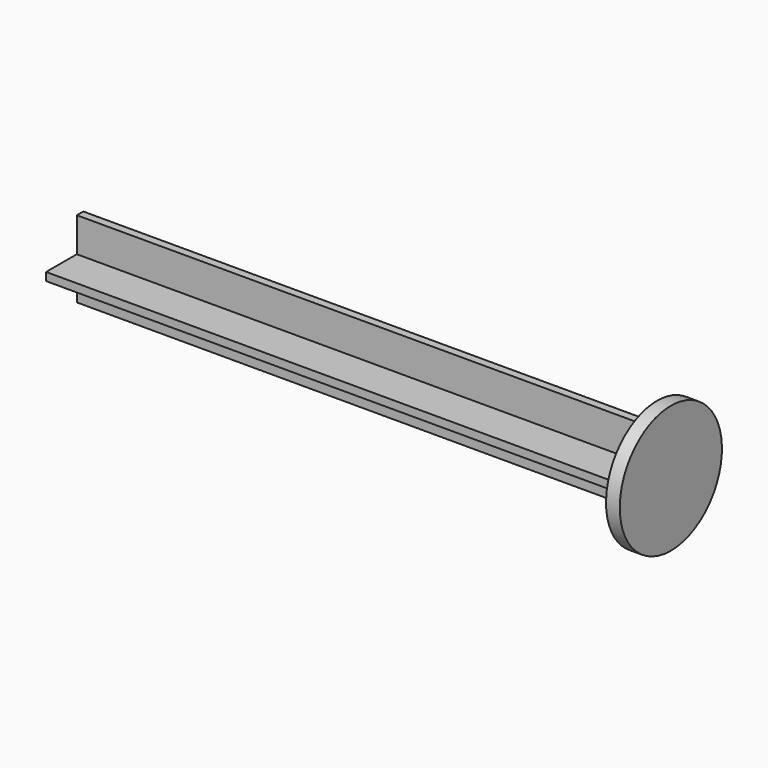
from build123d import *

# Parameters (mm, degrees)
BOX001_W          = 71.8
BOX001_H          = 1
BOX001_DEPTH      = 9.5
CYLINDER004_R     = 7.9
CYLINDER004_DEPTH = 1.7
BOX_W             = 71.8
BOX_H             = 9.5
BOX_DEPTH         = 1


with BuildPart() as obj1:
    # Box001 → Box001 (new body)
    with BuildSketch(Plane(origin=(-40, 36.6, 10.375), x_dir=(1, 0, 0), z_dir=(0, 0, 1))):
        with Locations((35.9, 0.5)):
            Rectangle(BOX001_W, BOX001_H)
    extrude(amount=BOX001_DEPTH)


with BuildPart() as obj2:
    # Cylinder004 → Cylinder004 (new body)
    with BuildSketch(Plane(origin=(31.8, 36.6, 15.125), x_dir=(0, 0, -1), z_dir=(1, 0, 0))):
        Circle(CYLINDER004_R)
    extrude(amount=CYLINDER004_DEPTH)


with BuildPart() as fusion015:
    # Box → Box (new body)
    with BuildSketch(Plane(origin=(-40, 31.85, 14.625), x_dir=(1, 0, 0), z_dir=(0, 0, 1))):
        with Locations((35.9, 4.75)):
            Rectangle(BOX_W, BOX_H)
    extrude(amount=BOX_DEPTH)

    # Fusion015: union obj1, obj2
    add(obj1.part)
    add(obj2.part)


solid = fusion015.part
